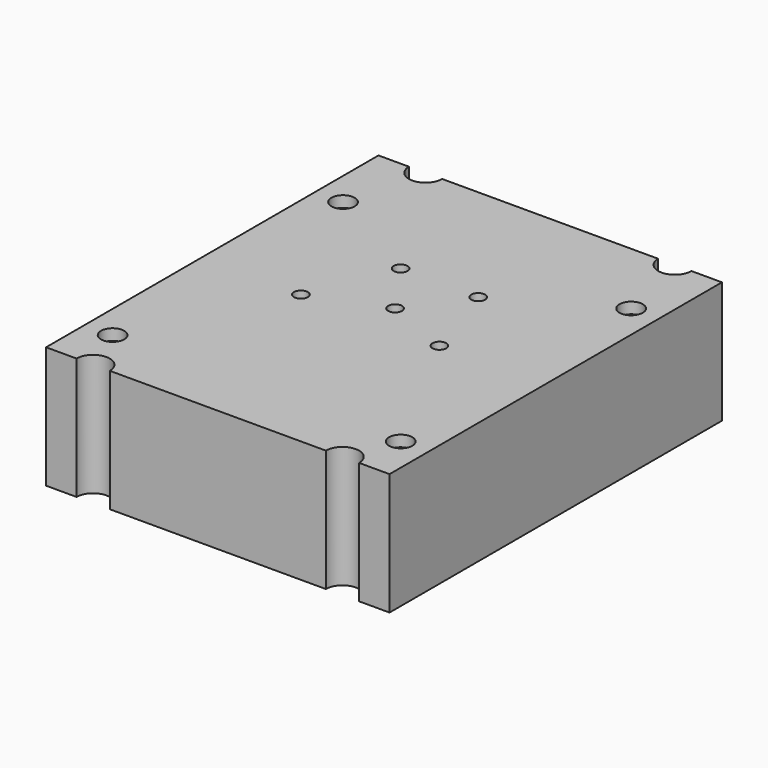
from build123d import *

# Parameters (mm, degrees)
F0_W      = 62
F0_H      = 75
F1_DEPTH  = 14
F2_W      = 62
F2_H      = 75
F3_DEPTH  = 8
F4_R      = 1.25
F5_DEPTH  = 38
F6_R      = 4.85
F6_R_2    = 2.65
F7_DEPTH  = 2
F8_R      = 2.1
F9_DEPTH  = 2
F10_R     = 1.25
F11_DEPTH = 35.5
F12_R     = 5.05
F12_R_2   = 2.65
F13_DEPTH = 2
F14_DEPTH = 27.2
F15_DEPTH = 18.2
F17_DEPTH = 25
F18_R     = 2
F19_DEPTH = 1.5


with BuildPart() as f1:
    # F0 (on Top) → F1 (new body)
    with BuildSketch(Plane.XY):
        Rectangle(F0_W, F0_H)
    extrude(amount=F1_DEPTH)

    # F2 (on face) → F3 (join)
    with BuildSketch(Plane(origin=(0, 0, 0), x_dir=(1, 0, 0), z_dir=(0, 0, -1))):
        Rectangle(F2_W, F2_H)
    extrude(amount=F3_DEPTH)

    # F4 (on face) → F5 (cut)
    with BuildSketch(Plane(origin=(0, 0, -8), x_dir=(1, 0, 0), z_dir=(0, 0, -1))):
        with Locations((-13, 2.5)):
            Circle(F4_R)
        with Locations((-7, -12.5)):
            Circle(F4_R)
        with Locations((0, -2.5)):
            Circle(F4_R)
        with Locations((7, -12.5)):
            Circle(F4_R)
        with Locations((12, 2.5)):
            Circle(F4_R)
    extrude(amount=-F5_DEPTH, mode=Mode.SUBTRACT)

    # F6 (on face) → F7 (cut)
    with BuildSketch(Plane(origin=(0, 0, -8), x_dir=(1, 0, 0), z_dir=(0, 0, -1))):
        with Locations((-7, -12.5)):
            Circle(F6_R)
        with Locations((-7, -12.5)):
            Circle(F6_R_2, mode=Mode.SUBTRACT)
        with Locations((-13, 2.5)):
            Circle(F6_R)
        with Locations((-13, 2.5)):
            Circle(F6_R_2, mode=Mode.SUBTRACT)
        with Locations((0, -2.5)):
            Circle(F6_R)
        with Locations((0, -2.5)):
            Circle(F6_R_2, mode=Mode.SUBTRACT)
        with Locations((12, 2.5)):
            Circle(F6_R)
        with Locations((12, 2.5)):
            Circle(F6_R_2, mode=Mode.SUBTRACT)
        with Locations((7, -12.5)):
            Circle(F6_R)
        with Locations((7, -12.5)):
            Circle(F6_R_2, mode=Mode.SUBTRACT)
    extrude(amount=-F7_DEPTH, mode=Mode.SUBTRACT)

    # F8 (on face) → F9 (cut)
    with BuildSketch(Plane.XY.offset(14)):
        with Locations((-26, 23.2629562748)):
            Circle(F8_R)
        with Locations((26, 23.2629562748)):
            Circle(F8_R)
        with Locations((26, -28.7370437252)):
            Circle(F8_R)
        with Locations((-26, -28.7370437252)):
            Circle(F8_R)
    extrude(amount=-F9_DEPTH, mode=Mode.SUBTRACT)

    # F10 (on face) → F11 (cut)
    with BuildSketch(Plane(origin=(0, 37.5, 0), x_dir=(-1, 0, 0), z_dir=(0, 1, 0))):
        with Locations((12, 7.901)):
            Circle(F10_R)
        with Locations((-13, 7.901)):
            Circle(F10_R)
    extrude(amount=-F11_DEPTH, mode=Mode.SUBTRACT)

    # F12 (on face) → F13 (cut)
    with BuildSketch(Plane(origin=(0, 37.5, 0), x_dir=(-1, 0, 0), z_dir=(0, 1, 0))):
        with Locations((-13, 7.901)):
            Circle(F12_R)
        with Locations((-13, 7.901)):
            Circle(F12_R_2, mode=Mode.SUBTRACT)
        with Locations((-7, -2.099)):
            Circle(F12_R)
        with Locations((-7, -2.099)):
            Circle(F12_R_2, mode=Mode.SUBTRACT)
        with Locations((0, 7.901)):
            Circle(F12_R)
        with Locations((0, 7.901)):
            Circle(F12_R_2, mode=Mode.SUBTRACT)
        with Locations((7, -2.099)):
            Circle(F12_R)
        with Locations((7, -2.099)):
            Circle(F12_R_2, mode=Mode.SUBTRACT)
        with Locations((12, 7.901)):
            Circle(F12_R)
        with Locations((12, 7.901)):
            Circle(F12_R_2, mode=Mode.SUBTRACT)
    extrude(amount=-F13_DEPTH, mode=Mode.SUBTRACT)

    # F10 (on face) → F14 (cut)
    with BuildSketch(Plane(origin=(0, 37.5, 0), x_dir=(-1, 0, 0), z_dir=(0, 1, 0))):
        with Locations((0, 7.901)):
            Circle(F10_R)
    extrude(amount=-F14_DEPTH, mode=Mode.SUBTRACT)

    # F10 (on face) → F15 (cut)
    with BuildSketch(Plane(origin=(0, 37.5, 0), x_dir=(-1, 0, 0), z_dir=(0, 1, 0))):
        with Locations((7, -2.099)):
            Circle(F10_R)
        with Locations((-7, -2.099)):
            Circle(F10_R)
    extrude(amount=-F15_DEPTH, mode=Mode.SUBTRACT)

    # F16 (on face) → F17 (cut)
    with BuildSketch(Plane(origin=(0, 0, -8), x_dir=(1, 0, 0), z_dir=(0, 0, -1))):
        with BuildLine():
            ThreePointArc((-25.5, 37.5), (-22.5, 34.5), (-19.5, 37.5))
            Line((-19.5, 37.5), (-25.5, 37.5))
        make_face()
        with BuildLine():
            Line((25.5, 37.5), (19.5, 37.5))
            ThreePointArc((19.5, 37.5), (22.5, 34.5), (25.5, 37.5))
        make_face()
        with BuildLine():
            ThreePointArc((-19.5, -37.5), (-22.5, -34.5), (-25.5, -37.5))
            Line((-25.5, -37.5), (-19.5, -37.5))
        make_face()
        with BuildLine():
            Line((19.5, -37.5), (25.5, -37.5))
            ThreePointArc((25.5, -37.5), (22.5, -34.5), (19.5, -37.5))
        make_face()
    extrude(amount=-F17_DEPTH, mode=Mode.SUBTRACT)

    # F18 (on face) → F19 (join)
    with BuildSketch(Plane(origin=(0, 0, -8), x_dir=(1, 0, 0), z_dir=(0, 0, -1))):
        with Locations((-26, 28.7370437252)):
            Circle(F18_R)
        with Locations((26, 28.7370437252)):
            Circle(F18_R)
        with Locations((26, -23.2629562748)):
            Circle(F18_R)
        with Locations((-26, -23.2629562748)):
            Circle(F18_R)
    extrude(amount=F19_DEPTH)


solid = f1.part
